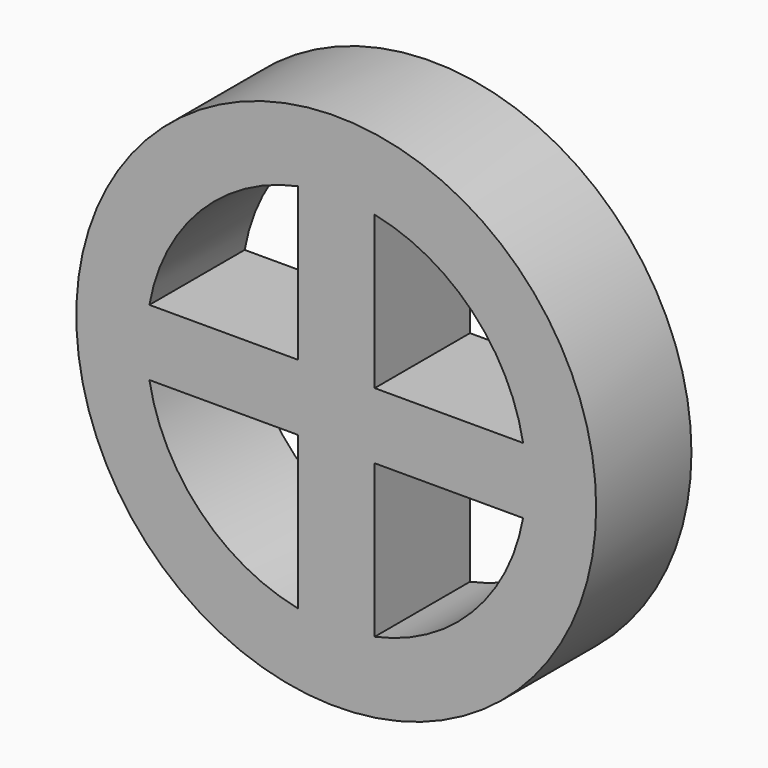
from build123d import *

# Parameters (mm, degrees)
F0_R     = 55.435679
F0_R_2   = 40.463585
F1_DEPTH = 25.4
F2_W     = 85.478314
F2_H     = 14.102482
F3_DEPTH = 25.4
F4_W     = 16.404928
F4_H     = 86.62954
F5_DEPTH = 25.4


with BuildPart() as f1:
    # F0 (on Front) → F1 (new body)
    with BuildSketch(Plane.XZ):
        Circle(F0_R)
        Circle(F0_R_2, mode=Mode.SUBTRACT)
    extrude(amount=F1_DEPTH)

    # F2 (on Front) → F3 (join)
    with BuildSketch(Plane.XZ):
        Rectangle(F2_W, F2_H)
    extrude(amount=F3_DEPTH)

    # F4 (on Front) → F5 (join)
    with BuildSketch(Plane.XZ):
        Rectangle(F4_W, F4_H)
    extrude(amount=F5_DEPTH)


solid = f1.part
